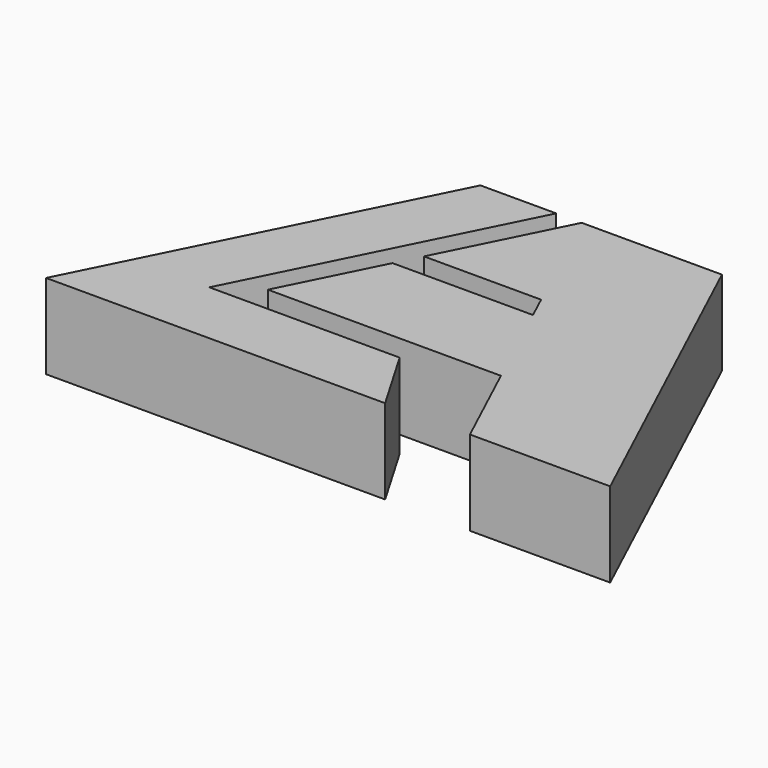
from build123d import *

# Parameters (mm, degrees)
F1_DEPTH = 10


with BuildPart() as f1:
    # F0 (on Top) → F1 (new body)
    with BuildSketch(Plane.XY):
        Polygon((-25.673916, 19.414563), (-45.381198, -20), (-5.381198, -20), (-10.021686, -12.063301), (-32.468576, -12.063301), (-16.729644, 19.414563), align=None)
        Polygon((4.618802, -20), (21.16451, -20), (2.816064, 19.414563), (-13.729644, 19.414563), (-20.885062, 5.103728), (-7.067599, 5.103728), (-5.737971, 2.247534), (-22.313159, 2.247534), (-27.968576, -9.063301), (-0.4725, -9.063301), align=None)
    extrude(amount=F1_DEPTH)


solid = f1.part
